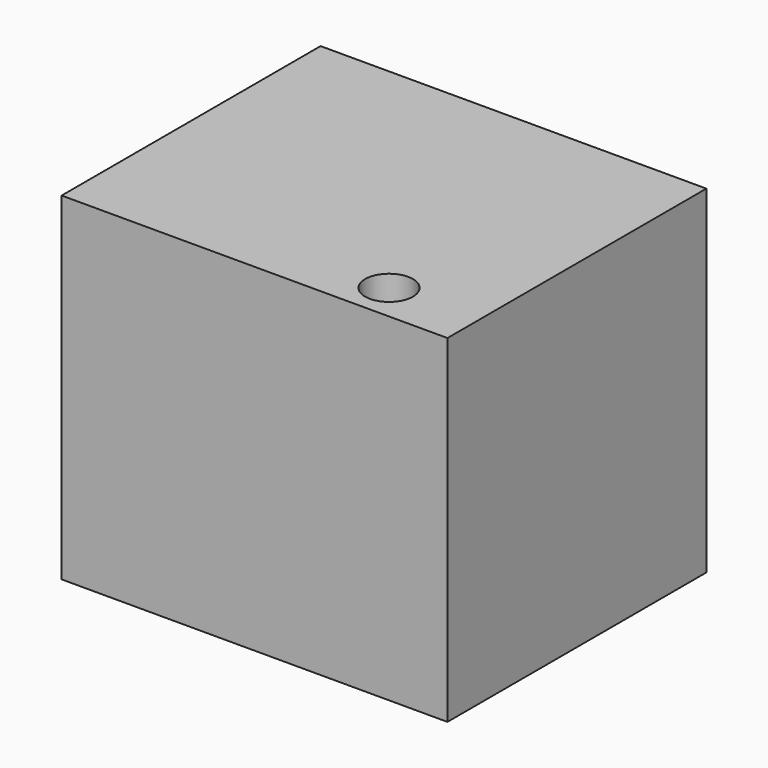
from build123d import *

# Parameters (mm, degrees)
F0_W     = 80.318124
F0_H     = 67.376844
F1_DEPTH = 70.358
F2_R     = 4.973083
F3_DEPTH = 70.359


with BuildPart() as f1:
    # F0 (on Top) → F1 (new body)
    with BuildSketch(Plane.XY):
        Rectangle(F0_W, F0_H)
    extrude(amount=-F1_DEPTH)

    # F2 (on face) → F3 (cut, through all)
    with BuildSketch(Plane(origin=(0, 0, -70.358), x_dir=(1, 0, 0), z_dir=(0, 0, -1))):
        with Locations((21.705685, 25.81902)):
            Circle(F2_R)
    extrude(amount=-F3_DEPTH, mode=Mode.SUBTRACT)


solid = f1.part
